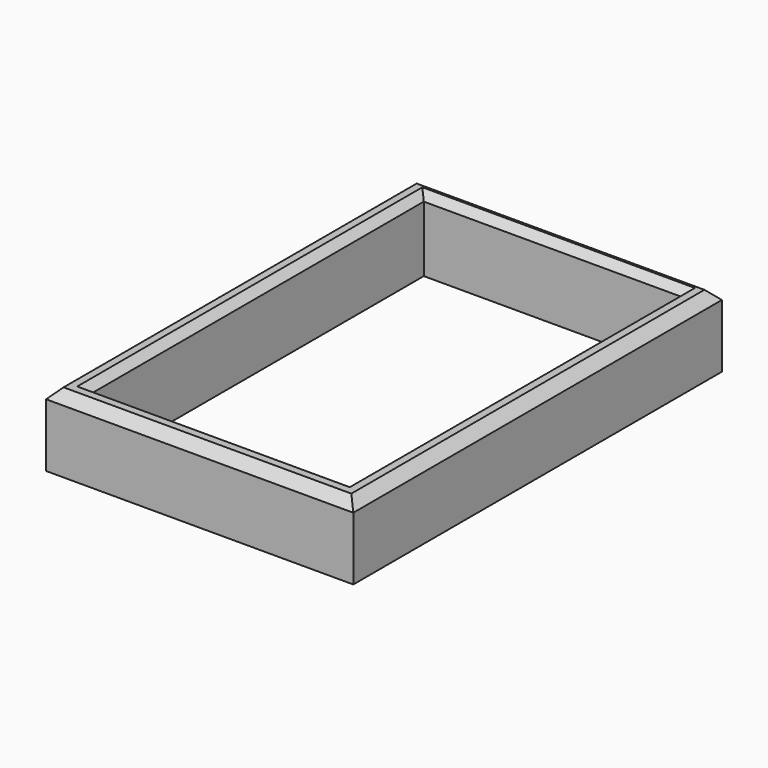
from build123d import *

# Parameters (mm, degrees)
F0_W     = 63.215511
F0_H     = 94.823267
F0_W_2   = 54.595215
F0_H_2   = 87.280504
F1_DEPTH = 15
F2_SIZE  = 2
F3_SIZE  = 1.5


with BuildPart() as f1:
    # F0 (on Top) → F1 (new body)
    with BuildSketch(Plane.XY):
        with Locations((1.126006, -6.699628)):
            Rectangle(F0_W, F0_H)
        with Locations((1.844364, -6.879218)):
            Rectangle(F0_W_2, F0_H_2, mode=Mode.SUBTRACT)
    extrude(amount=F1_DEPTH)

    # F2
    f2_edges = [f1.edges().sort_by_distance(p)[0] for p in [
        (-30.48175, -6.699627, 15),
        (1.126005, 40.712006, 15),
        (32.733761, -6.699627, 15),
        (1.126005, -54.111261, 15),
    ]]
    chamfer(f2_edges, length=F2_SIZE)

    # F3
    f3_edges = [f1.edges().sort_by_distance(p)[0] for p in [
        (1.844364, 36.761034, 15),
        (-25.453243, -6.879218, 15),
    ]]
    chamfer(f3_edges, length=F3_SIZE)


solid = f1.part
